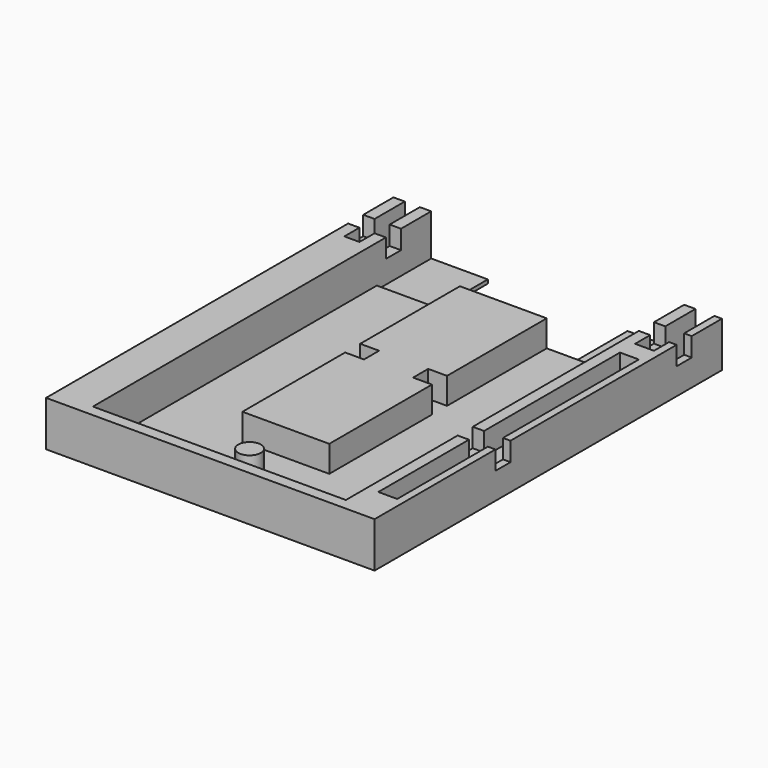
from build123d import *

# Parameters (mm, degrees)
F0_W      = 87
F0_H      = 115
F1_DEPTH  = 2
F3_DEPTH  = 10
F2_R      = 3
F4_DEPTH  = 7
F5_DEPTH  = 7
F7_DEPTH  = 25
F8_DEPTH  = 6
F6_W      = 5
F6_H      = 5.0000016391
F6_H_2    = 4.9999983609
F6_H_3    = 4.999999553
F6_H_4    = 5.000000447
F9_DEPTH  = 25
F6_W_2    = 3
F10_DEPTH = 5
F2_W      = 15
F2_H      = 18
F11_DEPTH = 1
F6_W_3    = 2
F12_DEPTH = 5
F6_H_5    = 4.9999998137
F13_DEPTH = 5


with BuildPart() as f1:
    # F0 (on Top) → F1 (new body)
    with BuildSketch(Plane.XY):
        Rectangle(F0_W, F0_H)
    extrude(amount=F1_DEPTH)

    # F2 (on face) → F3 (join)
    with BuildSketch(Plane.XY.offset(2)):
        Polygon((33.5, -54.5), (-33.5, -54.5), (-33.5, 39.5), (-33.5, 57.5), (-43.5, 57.5), (-43.5, -57.5), (43.5, -57.5), (43.5, 57.5), (33.5, 57.5), (33.5, 39.5), align=None)
    extrude(amount=F3_DEPTH)

    # F2 (on face) → F4 (join)
    with BuildSketch(Plane.XY.offset(2)):
        with Locations((0, -44.5)):
            Circle(F2_R)
    extrude(amount=F4_DEPTH)

    # F2 (on face) → F5 (join)
    with BuildSketch(Plane.XY.offset(2)):
        Polygon((11.5, 39.5), (-11.5, 39.5), (-11.5, 6.5), (-6.5, 6.5), (-6.5, 1.5), (-11.5, 1.5), (-11.5, -32.5), (11.5, -32.5), (11.5, 1.5), (6.5, 1.5), (6.5, 6.5), (11.5, 6.5), align=None)
    extrude(amount=F5_DEPTH)

    # F2 (on face) → F7 (cut)
    with BuildSketch(Plane.XY.offset(2)):
        Polygon((-18.5, 57.5), (-18.5, 39.5), (-11.5, 39.5), (11.5, 39.5), (18.5, 39.5), (18.5, 57.5), align=None)
    extrude(amount=-F7_DEPTH, mode=Mode.SUBTRACT)

    # F6 (on face) → F8 (cut)
    with BuildSketch(Plane.XY.offset(12)):
        Polygon((41.5, -12.5000001863), (41.5, 32.5), (36.5, 32.5), (36.5, -12.5000001863), (36.5, -17.5), (36.5, -47.5), (41.5, -47.5), (41.5, -17.5), align=None)
    extrude(amount=-F8_DEPTH, mode=Mode.SUBTRACT)

    # F6 (on face) → F9 (cut)
    with BuildSketch(Plane.XY.offset(12)):
        Polygon((-40.5, 47.5), (-40.5, 42.500000447), (-40.5, 37.5), (-36.5, 37.5), (-36.5, 42.500000447), (-36.5, 47.5), (-36.5, 57.5), (-40.5, 57.5), align=None)
        with Locations((39, 54.9999991804)):
            Rectangle(F6_W, F6_H)
        with Locations((39, 49.9999991804)):
            Rectangle(F6_W, F6_H_2)
        with Locations((39, 45.0000002235)):
            Rectangle(F6_W, F6_H_3)
        with Locations((39, 40.0000002235)):
            Rectangle(F6_W, F6_H_4)
    extrude(amount=-F9_DEPTH, mode=Mode.SUBTRACT)

    # F6 (on face) → F10 (cut)
    with BuildSketch(Plane.XY.offset(12)):
        with Locations((-42, 45.0000002235)):
            Rectangle(F6_W_2, F6_H_3)
        with Locations((-35, 45.0000002235)):
            Rectangle(F6_W_2, F6_H_3)
    extrude(amount=-F10_DEPTH, mode=Mode.SUBTRACT)

    # F2 (on face) → F11 (cut)
    with BuildSketch(Plane.XY.offset(2)):
        with Locations((-26, 48.5)):
            Rectangle(F2_W, F2_H)
        with Locations((26, 48.5)):
            Rectangle(F2_W, F2_H)
    extrude(amount=-F11_DEPTH, mode=Mode.SUBTRACT)

    # F6 (on face) → F12 (cut)
    with BuildSketch(Plane.XY.offset(12)):
        with Locations((35, 45.0000002235)):
            Rectangle(F6_W_2, F6_H_3)
        with Locations((42.5, 45.0000002235)):
            Rectangle(F6_W_3, F6_H_3)
    extrude(amount=-F12_DEPTH, mode=Mode.SUBTRACT)

    # F6 (on face) → F13 (cut)
    with BuildSketch(Plane.XY.offset(12)):
        with Locations((35, -15.0000000931)):
            Rectangle(F6_W_2, F6_H_5)
        with Locations((42.5, -15.0000000931)):
            Rectangle(F6_W_3, F6_H_5)
    extrude(amount=-F13_DEPTH, mode=Mode.SUBTRACT)


solid = f1.part
